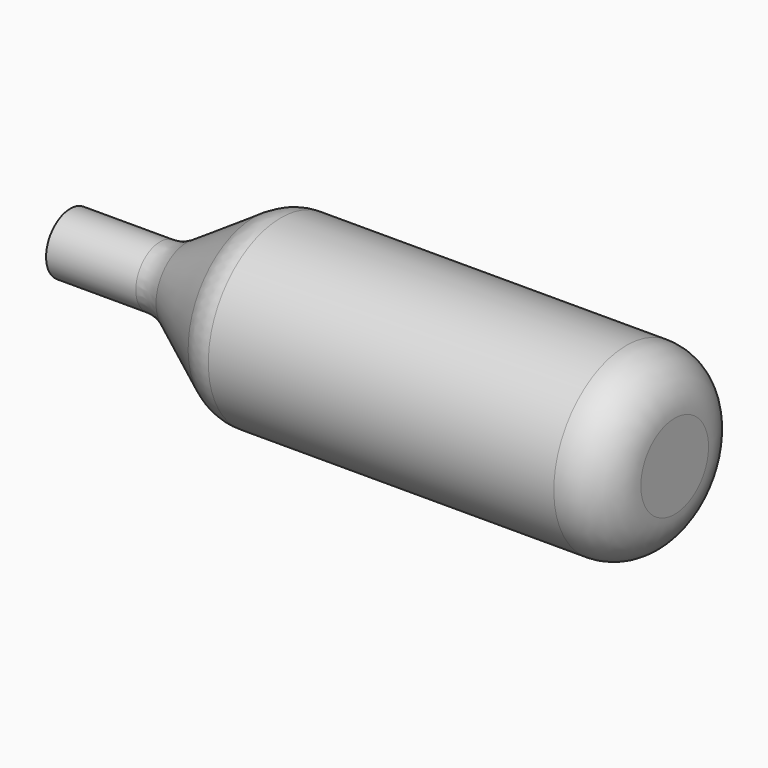
from build123d import *

# Parameters (mm, degrees)
F2_R = 5.08
F3_R = 5.08


with BuildPart() as f1:
    # F0 (on Front) → F1 (revolve)
    with BuildSketch(Plane.XZ):
        Polygon((-18.6021607369, -9.4218043774), (-29.5509118587, -9.4218043774), (-29.5509118587, -12.5968043774), (33.9490881413, -12.5968043774), (33.9490881413, -3.0718043774), (-8.9451875538, -3.0718043774), align=None)
    revolve(axis=Axis((2.1990881413, 0, -12.5968043774), (1, 0, 0)))

    # F2
    f2_edges = [f1.edges().sort_by_distance(p)[0] for p in [
        (33.949088, 0, -22.121804),
    ]]
    fillet(f2_edges, radius=F2_R)

    # F3
    f3_edges = [f1.edges().sort_by_distance(p)[0] for p in [
        (-8.945188, 0, -22.121804),
        (-18.602161, 0, -15.771804),
        (-13.773674, 0, -6.246804),
    ]]
    fillet(f3_edges, radius=F3_R)


solid = f1.part
